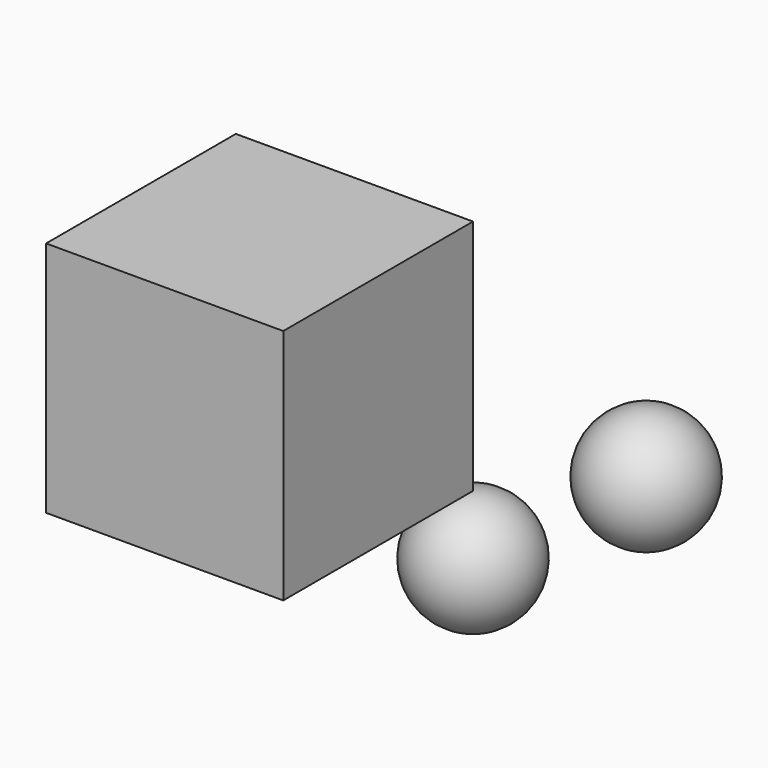
from build123d import *

# Parameters (mm, degrees)
F0_W     = 10
F0_H     = 10
F1_DEPTH = 10


with BuildPart() as f1:
    # F0 (on Front) → F1 (new body)
    with BuildSketch(Plane.XZ):
        with Locations((-5, 5)):
            Rectangle(F0_W, F0_H)
    extrude(amount=F1_DEPTH)


with BuildPart() as f3:
    # F2 (on Front) → F3 (revolve)
    with BuildSketch(Plane.XZ):
        with BuildLine():
            Line((0, -5), (0, 0))
            ThreePointArc((0, 0), (-2.5, -2.5), (0, -5))
        make_face()
    revolve(axis=Axis((0, 0, -2.5), (0, 0, -1)))


with BuildPart() as f4_1:
    # F4: copy of F3
    add(f3.part.moved(Location((7.3, 0, 5.41))))


solid = Compound([f1.part, f3.part, f4_1.part])
